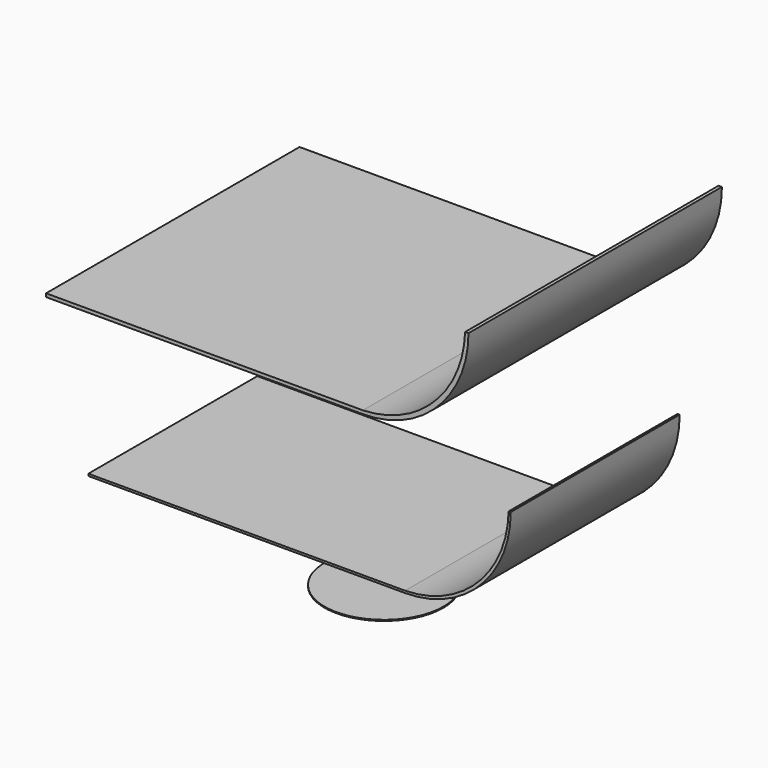
from build123d import *

# Parameters (mm, degrees)
F0_R     = 14.2875
F1_DEPTH = 0.254
F3_DEPTH = 25.4
F5_DEPTH = 38.1


with BuildPart() as f1:
    # F0 (on Top) → F1 (new body)
    with BuildSketch(Plane.XY):
        Circle(F0_R)
    extrude(amount=F1_DEPTH)


with BuildPart() as f3:
    # F2 (on Front) → F3 (new body, symmetric)
    with BuildSketch(Plane.XZ):
        with BuildLine():
            ThreePointArc((25.4, 17.065627), (43.360512, 24.505115), (50.8, 42.465627))
            Line((50.8, 42.465627), (50.292, 42.465627))
            ThreePointArc((50.292, 42.465627), (42.857494, 25.008133), (25.4, 17.573627))
            Line((25.4, 17.573627), (-50.8, 17.573627))
            Line((-50.8, 17.573627), (-50.8, 17.065627))
            Line((-50.8, 17.065627), (25.4, 17.065627))
        make_face()
    extrude(amount=F3_DEPTH, both=True)


with BuildPart() as f5:
    # F4 (on Front) → F5 (new body, symmetric)
    with BuildSketch(Plane.XZ):
        with BuildLine():
            Line((-50.8, 60.120524), (25.4, 60.120524))
            ThreePointArc((25.4, 60.120524), (43.360512, 67.560011), (50.8, 85.520524))
            Line((50.8, 85.520524), (49.9872, 85.520524))
            ThreePointArc((49.9872, 85.520524), (42.56032, 68.360204), (25.4, 60.933324))
            Line((25.4, 60.933324), (-50.8, 60.933324))
            Line((-50.8, 60.933324), (-50.8, 60.120524))
        make_face()
    extrude(amount=F5_DEPTH, both=True)


solid = Compound([f1.part, f3.part, f5.part])
